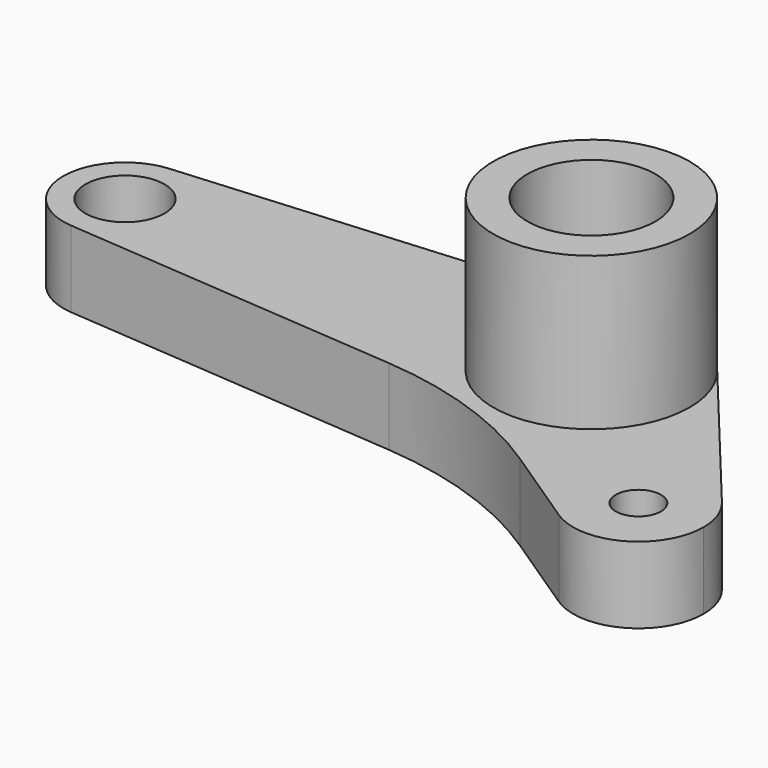
from build123d import *

# Parameters (mm, degrees)
F0_R     = 13.155886
F0_R_2   = 7.519741
F0_R_3   = 21.320013
F1_DEPTH = 25.4
F2_R     = 32.685554
F2_R_2   = 21.320013
F3_DEPTH = 50.8


with BuildPart() as f1:
    # F0 (on Top) → F1 (new body)
    with BuildSketch(Plane.XY):
        with BuildLine():
            ThreePointArc((-156.815305, 20.465674), (-141.271435, 15.07379), (-134.678623, 0))
            ThreePointArc((-134.678623, 0), (-141.271435, -15.07379), (-156.815305, -20.465674))
            Line((-156.815305, -20.465674), (-43.91796, -29.33575))
            ThreePointArc((-43.91796, -29.33575), (-12.40194, -35.904827), (16.449735, -50.187445))
            Line((16.449735, -50.187445), (43.889078, -68.430968))
            ThreePointArc((43.889078, -68.430968), (39.777248, -35.824191), (72.635041, -36.513003))
            Line((72.635041, -36.513003), (25.182848, 20.836736))
            ThreePointArc((25.182848, 20.836736), (30.752729, 11.073168), (32.685554, 0))
            ThreePointArc((32.685554, 0), (-22.188577, -24.000259), (-2.560137, 32.585136))
            Line((-2.560137, 32.585136), (-156.815305, 20.465674))
        make_face()
        with BuildLine():
            ThreePointArc((-156.815305, -20.465674), (-141.271435, -15.07379), (-134.678623, 0))
            ThreePointArc((-134.678623, 0), (-141.271435, 15.07379), (-156.815305, 20.465674))
            ThreePointArc((-156.815305, 20.465674), (-175.736109, 0), (-156.815305, -20.465674))
        make_face()
        with Locations((-155.207366, 0)):
            Circle(F0_R, mode=Mode.SUBTRACT)
        with BuildLine():
            ThreePointArc((77.618277, -50.352592), (76.334511, -42.997885), (72.635041, -36.513003))
            ThreePointArc((72.635041, -36.513003), (39.777248, -35.824191), (43.889078, -68.430968))
            ThreePointArc((43.889078, -68.430968), (66.164518, -69.486897), (77.618277, -50.352592))
        make_face()
        with Locations((55.9088, -50.352592)):
            Circle(F0_R_2, mode=Mode.SUBTRACT)
        with BuildLine():
            ThreePointArc((25.182848, 20.836736), (12.745705, 30.098047), (-2.560137, 32.585136))
            ThreePointArc((-2.560137, 32.585136), (-22.188577, -24.000259), (32.685554, 0))
            ThreePointArc((32.685554, 0), (30.752729, 11.073168), (25.182848, 20.836736))
        make_face()
        Circle(F0_R_3, mode=Mode.SUBTRACT)
    extrude(amount=F1_DEPTH)

    # F2 (on face) → F3 (join)
    with BuildSketch(Plane.XY.offset(25.4)):
        Circle(F2_R)
        Circle(F2_R_2, mode=Mode.SUBTRACT)
    extrude(amount=F3_DEPTH)


solid = f1.part
